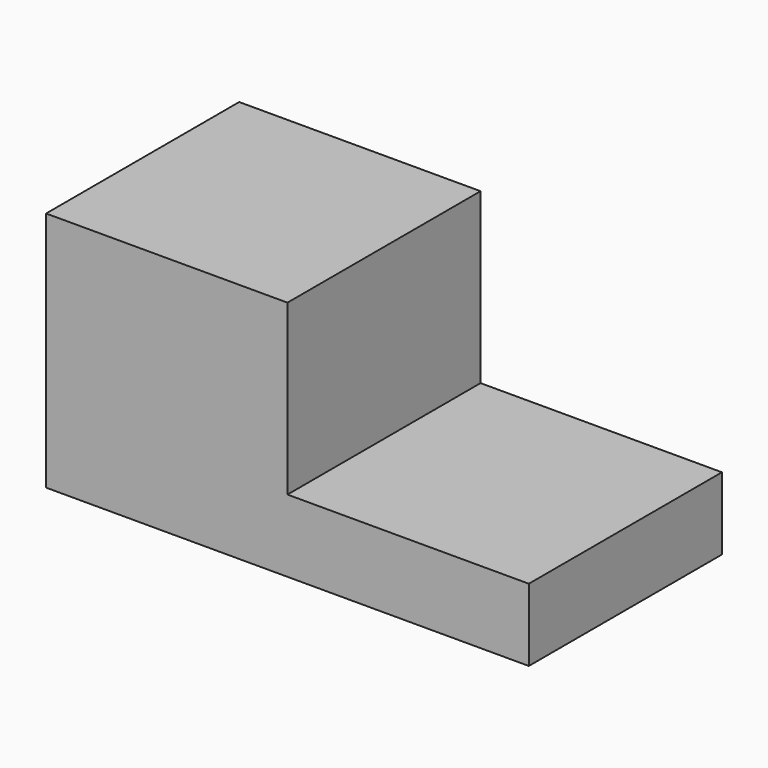
from build123d import *

# Parameters (mm, degrees)
BOX_W        = 10
BOX_H        = 10
BOX_DEPTH    = 10
BOX001_W     = 10
BOX001_H     = 10
BOX001_DEPTH = 3


with BuildPart() as cube:
    # Box → Box (new body)
    with BuildSketch(Plane.XY):
        with Locations((5, 5)):
            Rectangle(BOX_W, BOX_H)
    extrude(amount=BOX_DEPTH)


with BuildPart() as fusion:
    # Box001 → Box001 (new body)
    with BuildSketch(Plane(origin=(10, 0, 0), x_dir=(1, 0, 0), z_dir=(0, 0, 1))):
        with Locations((5, 5)):
            Rectangle(BOX001_W, BOX001_H)
    extrude(amount=BOX001_DEPTH)

    # Fusion: union Cube
    add(cube.part)


solid = fusion.part
